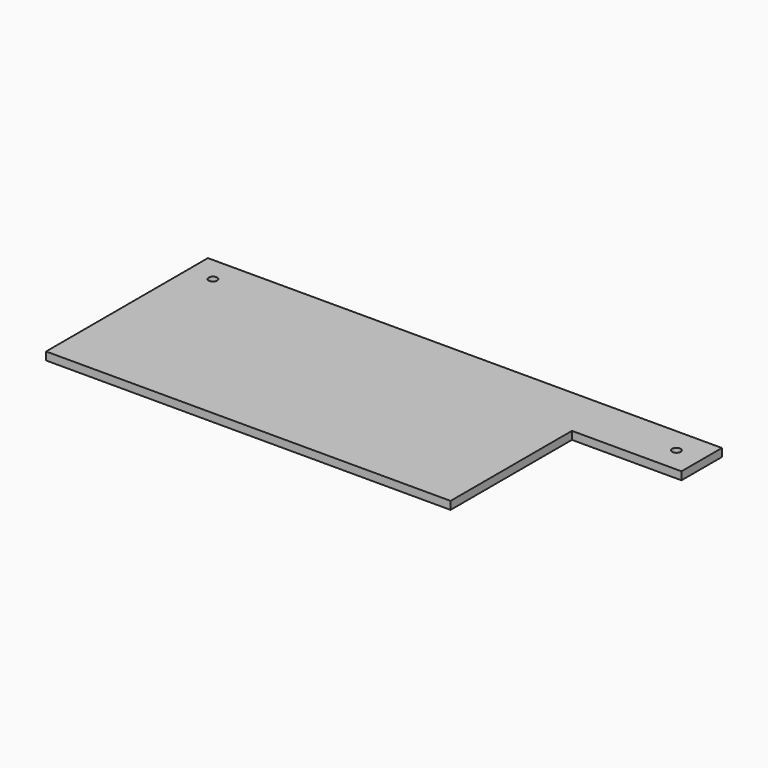
from build123d import *

# Parameters (mm, degrees)
F1_DEPTH = 5.9944
F2_R     = 6.35
F3_DEPTH = 11.9888


with BuildPart() as f1:
    # F0 (on Top) → F1 (new body, symmetric)
    with BuildSketch(Plane.XY):
        Polygon((387.35, -38.1), (387.35, 38.1), (-387.35, 38.1), (-387.35, -38.1), (-387.35, -266.7), (222.25, -266.7), (222.25, -38.1), align=None)
    extrude(amount=F1_DEPTH, both=True)

    # F2 (on face) → F3 (cut, through all)
    with BuildSketch(Plane(origin=(0, 0, -5.9944), x_dir=(1, 0, 0), z_dir=(0, 0, -1))):
        with Locations((-349.25, 0)):
            Circle(F2_R)
        with Locations((349.25, 0)):
            Circle(F2_R)
    extrude(amount=-F3_DEPTH, mode=Mode.SUBTRACT)


solid = f1.part
